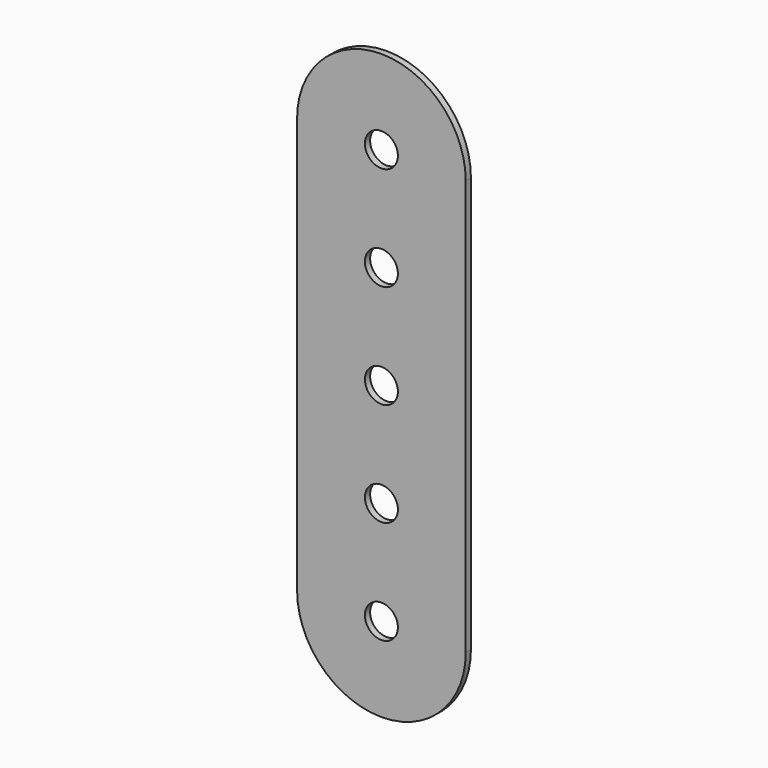
from build123d import *

# Parameters (mm, degrees)
F0_R     = 2.54
F1_DEPTH = 1


with BuildPart() as f1:
    # F0 (on Front) → F1 (new body)
    with BuildSketch(Plane.XZ):
        with BuildLine():
            ThreePointArc((13, 48), (0, 35), (-13, 48))
            Line((-13, 48), (-13, -16))
            ThreePointArc((-13, -16), (0, -3), (13, -16))
            Line((13, -16), (13, 48))
        make_face()
        Circle(F0_R, mode=Mode.SUBTRACT)
        with Locations((0, 16)):
            Circle(F0_R, mode=Mode.SUBTRACT)
        with Locations((0, 32)):
            Circle(F0_R, mode=Mode.SUBTRACT)
        with BuildLine():
            ThreePointArc((13, 48), (0, 61), (-13, 48))
            ThreePointArc((-13, 48), (0, 35), (13, 48))
        make_face()
        with Locations((0, 48)):
            Circle(F0_R, mode=Mode.SUBTRACT)
        with BuildLine():
            ThreePointArc((13, -16), (0, -3), (-13, -16))
            ThreePointArc((-13, -16), (0, -29), (13, -16))
        make_face()
        with Locations((0, -16)):
            Circle(F0_R, mode=Mode.SUBTRACT)
    extrude(amount=F1_DEPTH)


solid = f1.part
